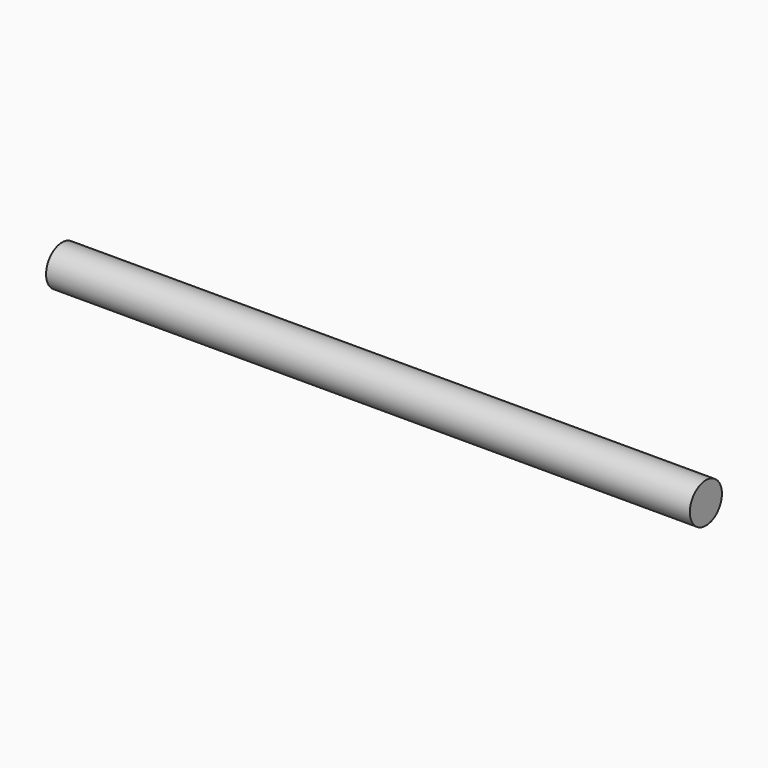
from build123d import *

# Parameters (mm, degrees)
SKETCH001_R = 0.4
PAD_DEPTH   = 12.85


with BuildPart() as part:
    # Sketch001 → Pad (new body)
    with BuildSketch(Plane.YZ.offset(-8.45)):
        Circle(SKETCH001_R)
    extrude(amount=PAD_DEPTH)


solid = part.part
